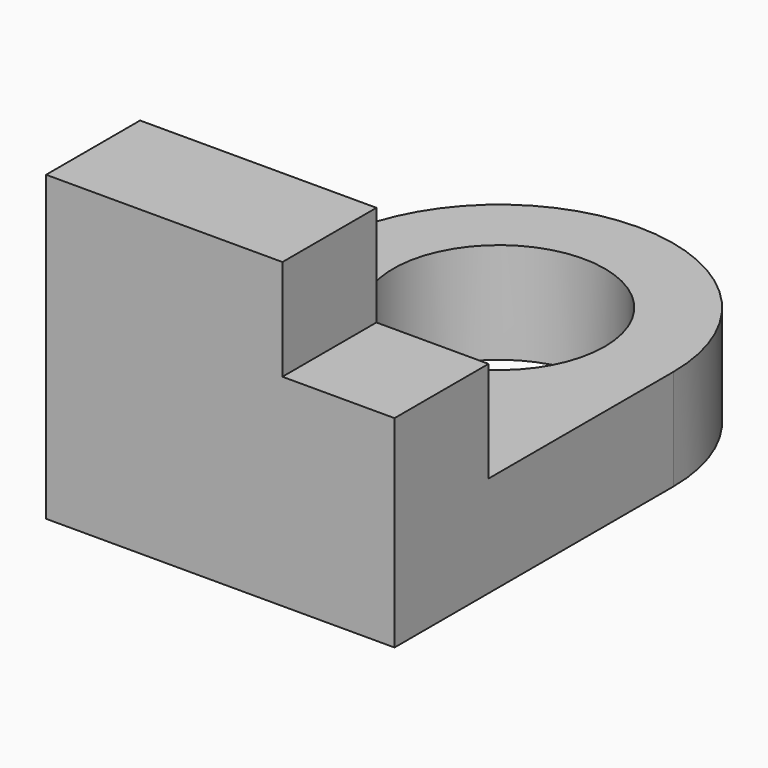
from build123d import *

# Parameters (mm, degrees)
F1_DEPTH = 19.05
F2_W     = 44.5915646851
F2_H     = 22.1683774143
F3_DEPTH = 38.1
F4_W     = 21.1491398513
F4_H     = 22.1683774143
F5_DEPTH = 19.05
F6_R     = 19.9367778841
F7_DEPTH = 25.4


with BuildPart() as f1:
    # F0 (on Top) → F1 (new body)
    with BuildSketch(Plane.XY):
        with BuildLine():
            ThreePointArc((32.8703522682, 32.8703522682), (0, 65.7407045364), (-32.8703522682, 32.8703522682))
            Line((-32.8703522682, 32.8703522682), (32.8703522682, 32.8703522682))
        make_face()
        with BuildLine():
            ThreePointArc((32.8703522682, 32.8703522682), (0, 0), (-32.8703522682, 32.8703522682))
            Line((-32.8703522682, 32.8703522682), (-32.8703522682, -32.8703522682))
            Line((-32.8703522682, -32.8703522682), (32.8703522682, -32.8703522682))
            Line((32.8703522682, -32.8703522682), (32.8703522682, 32.8703522682))
        make_face()
        with BuildLine():
            Line((32.8703522682, 32.8703522682), (-32.8703522682, 32.8703522682))
            ThreePointArc((-32.8703522682, 32.8703522682), (0, 0), (32.8703522682, 32.8703522682))
        make_face()
    extrude(amount=F1_DEPTH)

    # F2 (on face) → F3 (join)
    with BuildSketch(Plane.XY.offset(19.05)):
        with Locations((-10.5745699257, -21.786163561)):
            Rectangle(F2_W, F2_H)
    extrude(amount=F3_DEPTH)

    # F4 (on face) → F5 (join)
    with BuildSketch(Plane.XY.offset(19.05)):
        with Locations((22.2957823426, -21.786163561)):
            Rectangle(F4_W, F4_H)
    extrude(amount=F5_DEPTH)

    # F6 (on face) → F7 (cut)
    with BuildSketch(Plane.XY.offset(19.05)):
        with Locations((0, 32.8703522682)):
            Circle(F6_R)
    extrude(amount=-F7_DEPTH, mode=Mode.SUBTRACT)


solid = f1.part
